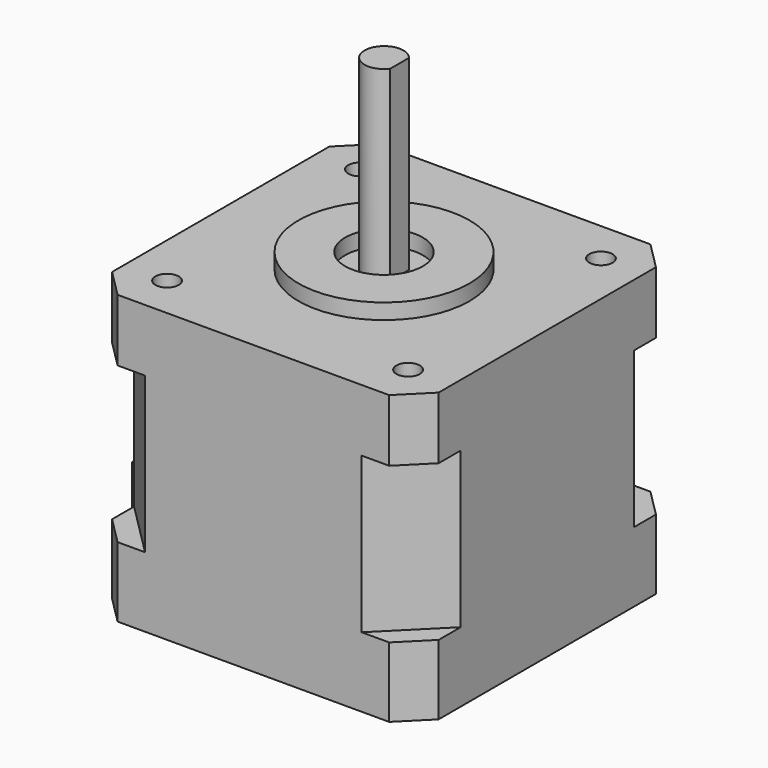
from build123d import *

# Parameters (mm, degrees)
PAD_DEPTH       = 37
SKETCH001_W     = 92
SKETCH001_H     = 92
POCKET_DEPTH    = 20
SKETCH002_R     = 11
SKETCH002_R_2   = 5
PAD001_DEPTH    = 2
SKETCH003_R     = 1.5
POCKET001_DEPTH = 5
PAD002_DEPTH    = 24
SKETCH005_W     = 5
SKETCH005_H     = 16
PAD003_DEPTH    = 10


with BuildPart() as part:
    # Sketch → Pad (new body)
    with BuildSketch(Plane.XY):
        Polygon((0, 3.535534), (3.535534, 0), (38.464466, 0), (42, 3.535534), (42, 38.464466), (38.464466, 42), (3.535534, 42), (0, 38.464466), align=None)
    extrude(amount=PAD_DEPTH)

    # Sketch001 (on DatumPlane) → Pocket (cut)
    with BuildSketch(Plane.XY.offset(9)):
        with Locations((21, 21)):
            Rectangle(SKETCH001_W, SKETCH001_H)
        Polygon((34.928932, 42), (42, 34.928932), (42, 7.071068), (34.928932, 0), (7.071068, 0), (0, 7.071068), (0, 34.928932), (7.071068, 42), align=None, mode=Mode.SUBTRACT)
    extrude(amount=POCKET_DEPTH, mode=Mode.SUBTRACT)

    # Sketch002 (on DatumPlane) → Pad001 (join)
    with BuildSketch(Plane.XY.offset(37)):
        with Locations((21, 21)):
            Circle(SKETCH002_R)
        with Locations((21, 21)):
            Circle(SKETCH002_R_2, mode=Mode.SUBTRACT)
    extrude(amount=PAD001_DEPTH)

    # Sketch003 (on DatumPlane) → Pocket001 (cut)
    with BuildSketch(Plane.XY.offset(37)):
        with Locations((5.5, 36.5)):
            Circle(SKETCH003_R)
        with Locations((36.5, 36.5)):
            Circle(SKETCH003_R)
        with Locations((36.5, 5.5)):
            Circle(SKETCH003_R)
        with Locations((5.5, 5.5)):
            Circle(SKETCH003_R)
    extrude(amount=-POCKET001_DEPTH, mode=Mode.SUBTRACT)

    # Sketch004 (on DatumPlane) → Pad002 (join)
    with BuildSketch(Plane.XY.offset(37)):
        with BuildLine():
            ThreePointArc((23, 22.5), (18.5, 21), (23, 19.5))
            Line((23, 19.5), (23, 22.5))
        make_face()
    extrude(amount=PAD002_DEPTH)

    # Sketch005 → Pad003 (join)
    with BuildSketch(Plane.XY):
        with Locations((-2.5, 21)):
            Rectangle(SKETCH005_W, SKETCH005_H)
    extrude(amount=PAD003_DEPTH)


solid = part.part
